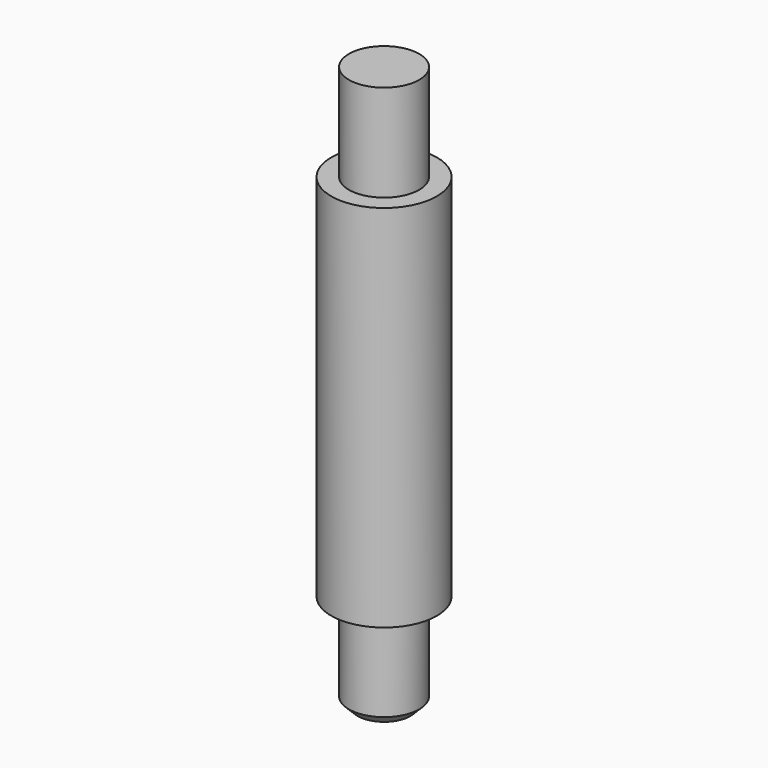
from build123d import *

# Parameters (mm, degrees)
F0_R     = 9.525
F0_R_2   = 6.35
F1_DEPTH = 66.675
F0_R_3   = 3.175
F2_DEPTH = 84.1502
F3_DEPTH = 17.4752
F4_SIZE  = 1.5875
F5_R     = 3.175
F6_DEPTH = 44.4754


with BuildPart() as f1:
    # F0 (on Top) → F1 (new body)
    with BuildSketch(Plane.XY):
        Circle(F0_R)
        Circle(F0_R_2, mode=Mode.SUBTRACT)
    extrude(amount=F1_DEPTH)

    # F0 (on Top) → F2 (join)
    with BuildSketch(Plane.XY):
        Circle(F0_R_2)
        Circle(F0_R_3, mode=Mode.SUBTRACT)
    extrude(amount=F2_DEPTH)

    # F0 (on Top) → F3 (join)
    with BuildSketch(Plane.XY):
        Circle(F0_R_2)
        Circle(F0_R_3, mode=Mode.SUBTRACT)
    extrude(amount=-F3_DEPTH)

    # F4
    f4_edges = [f1.edges().sort_by_distance(p)[0] for p in [
        (-6.35, 0, -17.4752),
    ]]
    chamfer(f4_edges, length=F4_SIZE)

    # F5 (on face) → F6 (join)
    with BuildSketch(Plane.XY.offset(84.1502)):
        Circle(F5_R)
    extrude(amount=-F6_DEPTH)


solid = f1.part
